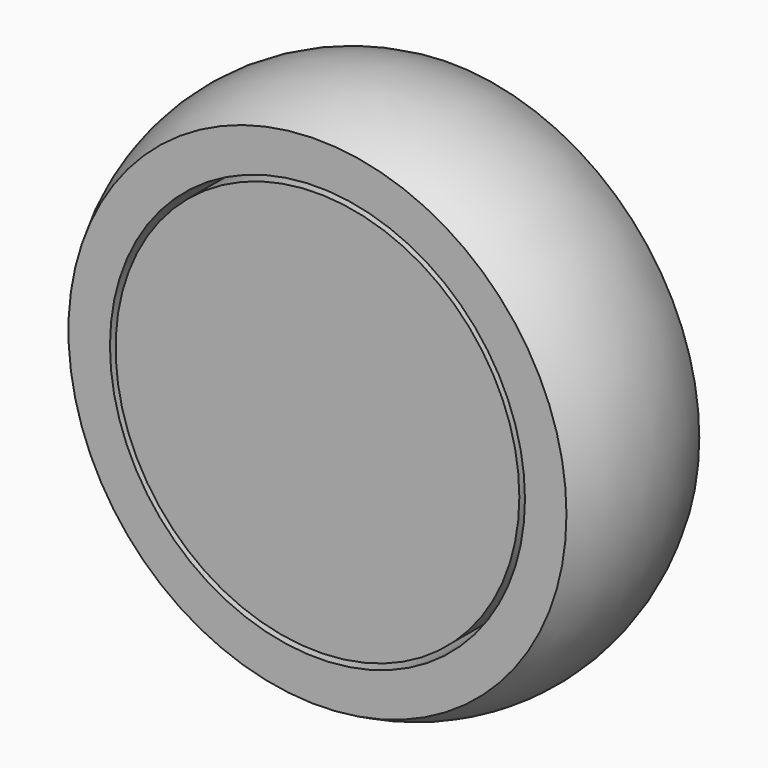
from build123d import *

# Parameters (mm, degrees)
F2_W = 243.209288
F2_H = 200


with BuildPart() as f1:
    # F0 (on Top) → F1 (revolve)
    with BuildSketch(Plane.XY):
        with BuildLine():
            Line((300, 100), (250, 100))
            Line((250, 100), (250, -100))
            Line((250, -100), (300, -100))
            ThreePointArc((300, -100), (326.794919, 0), (300, 100))
        make_face()
    revolve(axis=Axis((0, 5.512021, 0), (0, 1, 0)))


with BuildPart() as f3:
    # F2 (on Top) → F3 (revolve)
    with BuildSketch(Plane.XY):
        with Locations((121.604644, 0.015104)):
            Rectangle(F2_W, F2_H)
    revolve(axis=Axis((0, 0, 0), (0, 1, 0)))


solid = Compound([f1.part, f3.part])
